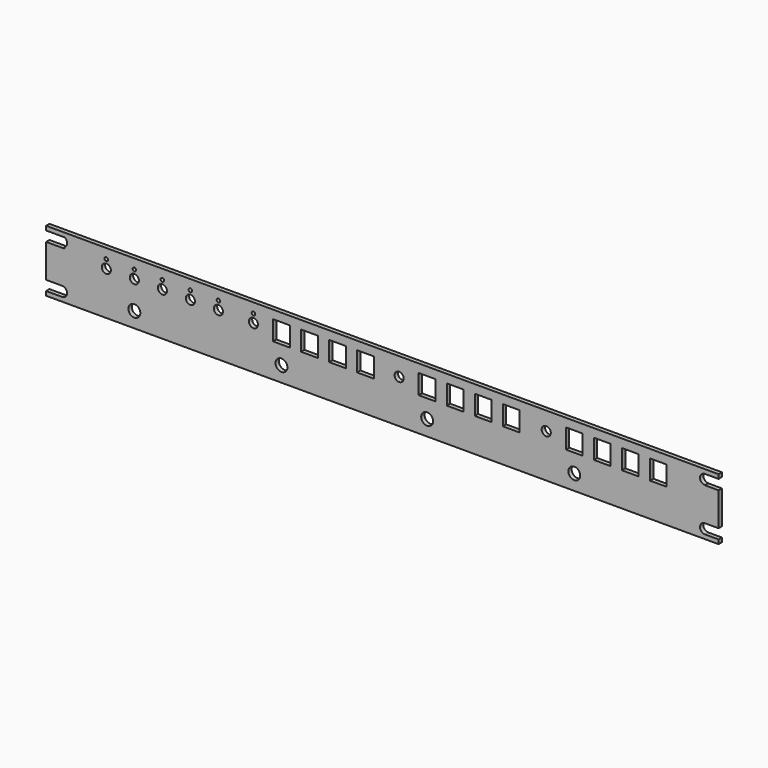
from build123d import *

# Parameters (mm, degrees)
F0_R     = 4.25
F0_W     = 12
F0_H     = 14
F0_R_2   = 3.25
F1_DEPTH = 3


with BuildPart() as f1:
    # F0 (on Front) → F1 (new body)
    with BuildSketch(Plane.XZ):
        with BuildLine():
            Line((235.9719324717, -52.8782820007), (-244.0280675283, -52.8782820007))
            Line((-244.0280675283, -52.8782820007), (-244.0280675283, -55.8782820007))
            Line((-244.0280675283, -55.8782820007), (-230.8552050385, -55.8782820007))
            ThreePointArc((-230.8552050385, -55.8782820007), (-229.0280675283, -58.9526162523), (-230.8552050385, -62.0269505038))
            Line((-230.8552050385, -62.0269505038), (-230.8552050385, -63.012175262))
            Line((-230.8552050385, -63.012175262), (-244.0280675283, -63.012175262))
            Line((-244.0280675283, -63.012175262), (-244.0280675283, -86.8791321319))
            Line((-244.0280675283, -86.8791321319), (-232.6052050385, -86.8791321319))
            ThreePointArc((-232.6052050385, -86.8791321319), (-229.0280675283, -90.3782820007), (-232.6052050385, -93.8774318695))
            Line((-232.6052050385, -93.8774318695), (-232.6052050385, -93.8782820007))
            Line((-232.6052050385, -93.8782820007), (-244.0280675283, -93.8782820007))
            Line((-244.0280675283, -93.8782820007), (-244.0280675283, -96.8782820007))
            Line((-244.0280675283, -96.8782820007), (235.9719324717, -96.8782820007))
            Line((235.9719324717, -96.8782820007), (235.9719324717, -93.8782820007))
            Line((235.9719324717, -93.8782820007), (226.299069982, -93.8782820007))
            Line((226.299069982, -93.8782820007), (226.299069982, -93.8774318695))
            ThreePointArc((226.299069982, -93.8774318695), (222.7219324717, -90.3782820007), (226.299069982, -86.8791321319))
            Line((226.299069982, -86.8791321319), (235.9719324717, -86.8791321319))
            Line((235.9719324717, -86.8791321319), (235.9719324717, -63.012175262))
            Line((235.9719324717, -63.012175262), (226.299069982, -63.012175262))
            Line((226.299069982, -63.012175262), (226.299069982, -62.8765817383))
            ThreePointArc((226.299069982, -62.8765817383), (222.7219324717, -59.3774318695), (226.299069982, -55.8782820007))
            Line((226.299069982, -55.8782820007), (235.9719324717, -55.8782820007))
            Line((235.9719324717, -55.8782820007), (235.9719324717, -52.8782820007))
        make_face()
        with Locations((-76.0280675283, -85.8782820007)):
            Circle(F0_R, mode=Mode.SUBTRACT)
        with Locations((-181.0280675283, -85.8782820007)):
            Circle(F0_R, mode=Mode.SUBTRACT)
        with Locations((27.9719324717, -85.8782820007)):
            Circle(F0_R, mode=Mode.SUBTRACT)
        with Locations((132.9719324717, -85.8782820007)):
            Circle(F0_R, mode=Mode.SUBTRACT)
        with BuildLine():
            Line((-207.0280675283, -72.8782820007), (-207.0280675283, -58.8782820007))
            Line((-207.0280675283, -58.8782820007), (-201.7780675283, -58.8782820007))
            ThreePointArc((-201.7780675283, -58.8782820007), (-201.0280675283, -58.6282820007), (-200.2780675283, -58.8782820007))
            Line((-200.2780675283, -58.8782820007), (-195.0280675283, -58.8782820007))
            Line((-195.0280675283, -58.8782820007), (-195.0280675283, -72.8782820007))
            Line((-195.0280675283, -72.8782820007), (-207.0280675283, -72.8782820007))
        make_face(mode=Mode.SUBTRACT)
        with BuildLine():
            Line((-187.0280675283, -72.8782820007), (-187.0280675283, -58.8782820007))
            Line((-187.0280675283, -58.8782820007), (-181.7780675283, -58.8782820007))
            ThreePointArc((-181.7780675283, -58.8782820007), (-181.0280675283, -58.6282820007), (-180.2780675283, -58.8782820007))
            Line((-180.2780675283, -58.8782820007), (-175.0280675283, -58.8782820007))
            Line((-175.0280675283, -58.8782820007), (-175.0280675283, -72.8782820007))
            Line((-175.0280675283, -72.8782820007), (-187.0280675283, -72.8782820007))
        make_face(mode=Mode.SUBTRACT)
        with BuildLine():
            Line((-167.0280675283, -72.8782820007), (-167.0280675283, -58.8782820007))
            Line((-167.0280675283, -58.8782820007), (-161.7780675283, -58.8782820007))
            ThreePointArc((-161.7780675283, -58.8782820007), (-161.0280675283, -58.6282820007), (-160.2780675283, -58.8782820007))
            Line((-160.2780675283, -58.8782820007), (-155.0280675283, -58.8782820007))
            Line((-155.0280675283, -58.8782820007), (-155.0280675283, -72.8782820007))
            Line((-155.0280675283, -72.8782820007), (-167.0280675283, -72.8782820007))
        make_face(mode=Mode.SUBTRACT)
        with BuildLine():
            Line((-147.0280675283, -72.8782820007), (-147.0280675283, -58.8782820007))
            Line((-147.0280675283, -58.8782820007), (-141.7780675283, -58.8782820007))
            ThreePointArc((-141.7780675283, -58.8782820007), (-141.0280675283, -58.6282820007), (-140.2780675283, -58.8782820007))
            Line((-140.2780675283, -58.8782820007), (-135.0280675283, -58.8782820007))
            Line((-135.0280675283, -58.8782820007), (-135.0280675283, -72.8782820007))
            Line((-135.0280675283, -72.8782820007), (-147.0280675283, -72.8782820007))
        make_face(mode=Mode.SUBTRACT)
        with BuildLine():
            Line((-127.0280675283, -72.8782820007), (-127.0280675283, -58.8782820007))
            Line((-127.0280675283, -58.8782820007), (-121.7780675283, -58.8782820007))
            ThreePointArc((-121.7780675283, -58.8782820007), (-121.0280675283, -58.6282820007), (-120.2780675283, -58.8782820007))
            Line((-120.2780675283, -58.8782820007), (-115.0280675283, -58.8782820007))
            Line((-115.0280675283, -58.8782820007), (-115.0280675283, -72.8782820007))
            Line((-115.0280675283, -72.8782820007), (-127.0280675283, -72.8782820007))
        make_face(mode=Mode.SUBTRACT)
        with BuildLine():
            Line((-102.0280675283, -72.8782820007), (-102.0280675283, -58.8782820007))
            Line((-102.0280675283, -58.8782820007), (-96.7780675283, -58.8782820007))
            ThreePointArc((-96.7780675283, -58.8782820007), (-96.0280675283, -58.6282820007), (-95.2780675283, -58.8782820007))
            Line((-95.2780675283, -58.8782820007), (-90.0280675283, -58.8782820007))
            Line((-90.0280675283, -58.8782820007), (-90.0280675283, -72.8782820007))
            Line((-90.0280675283, -72.8782820007), (-102.0280675283, -72.8782820007))
        make_face(mode=Mode.SUBTRACT)
        with Locations((-76.0280675283, -65.8782820007)):
            Rectangle(F0_W, F0_H, mode=Mode.SUBTRACT)
        with Locations((-56.0280675283, -65.8782820007)):
            Rectangle(F0_W, F0_H, mode=Mode.SUBTRACT)
        with Locations((-36.0280675283, -65.8782820007)):
            Rectangle(F0_W, F0_H, mode=Mode.SUBTRACT)
        with Locations((-16.0280675283, -65.8782820007)):
            Rectangle(F0_W, F0_H, mode=Mode.SUBTRACT)
        with Locations((7.9719324717, -65.8782820007)):
            Rectangle(F0_W, F0_H, mode=Mode.SUBTRACT)
        with Locations((27.9719324717, -65.8782820007)):
            Rectangle(F0_W, F0_H, mode=Mode.SUBTRACT)
        with Locations((47.9719324717, -65.8782820007)):
            Rectangle(F0_W, F0_H, mode=Mode.SUBTRACT)
        with Locations((67.9719324717, -65.8782820007)):
            Rectangle(F0_W, F0_H, mode=Mode.SUBTRACT)
        with Locations((87.9719324717, -65.8782820007)):
            Rectangle(F0_W, F0_H, mode=Mode.SUBTRACT)
        with Locations((112.9719324717, -65.8782820007)):
            Rectangle(F0_W, F0_H, mode=Mode.SUBTRACT)
        with Locations((132.9719324717, -65.8782820007)):
            Rectangle(F0_W, F0_H, mode=Mode.SUBTRACT)
        with Locations((152.9719324717, -65.8782820007)):
            Rectangle(F0_W, F0_H, mode=Mode.SUBTRACT)
        with Locations((172.9719324717, -65.8782820007)):
            Rectangle(F0_W, F0_H, mode=Mode.SUBTRACT)
        with Locations((192.9719324717, -65.8782820007)):
            Rectangle(F0_W, F0_H, mode=Mode.SUBTRACT)
        with BuildLine():
            Line((-201.7780675283, -58.8782820007), (-207.0280675283, -58.8782820007))
            Line((-207.0280675283, -58.8782820007), (-207.0280675283, -72.8782820007))
            Line((-207.0280675283, -72.8782820007), (-195.0280675283, -72.8782820007))
            Line((-195.0280675283, -72.8782820007), (-195.0280675283, -58.8782820007))
            Line((-195.0280675283, -58.8782820007), (-200.2780675283, -58.8782820007))
            ThreePointArc((-200.2780675283, -58.8782820007), (-199.9100335395, -59.3192650063), (-199.7780675283, -59.8782820007))
            ThreePointArc((-199.7780675283, -59.8782820007), (-201.5870845227, -60.9963159894), (-201.7780675283, -58.8782820007))
        make_face()
        with Locations((-201.0280675283, -65.8782820007)):
            Circle(F0_R_2, mode=Mode.SUBTRACT)
        with BuildLine():
            Line((-181.7780675283, -58.8782820007), (-187.0280675283, -58.8782820007))
            Line((-187.0280675283, -58.8782820007), (-187.0280675283, -72.8782820007))
            Line((-187.0280675283, -72.8782820007), (-175.0280675283, -72.8782820007))
            Line((-175.0280675283, -72.8782820007), (-175.0280675283, -58.8782820007))
            Line((-175.0280675283, -58.8782820007), (-180.2780675283, -58.8782820007))
            ThreePointArc((-180.2780675283, -58.8782820007), (-179.9100335395, -59.3192650063), (-179.7780675283, -59.8782820007))
            ThreePointArc((-179.7780675283, -59.8782820007), (-181.5870845227, -60.9963159894), (-181.7780675283, -58.8782820007))
        make_face()
        with Locations((-181.0280675283, -65.8782820007)):
            Circle(F0_R_2, mode=Mode.SUBTRACT)
        with BuildLine():
            Line((-121.7780675283, -58.8782820007), (-127.0280675283, -58.8782820007))
            Line((-127.0280675283, -58.8782820007), (-127.0280675283, -72.8782820007))
            Line((-127.0280675283, -72.8782820007), (-115.0280675283, -72.8782820007))
            Line((-115.0280675283, -72.8782820007), (-115.0280675283, -58.8782820007))
            Line((-115.0280675283, -58.8782820007), (-120.2780675283, -58.8782820007))
            ThreePointArc((-120.2780675283, -58.8782820007), (-119.9100335395, -59.3192650063), (-119.7780675283, -59.8782820007))
            ThreePointArc((-119.7780675283, -59.8782820007), (-121.5870845227, -60.9963159894), (-121.7780675283, -58.8782820007))
        make_face()
        with Locations((-121.0280675283, -65.8782820007)):
            Circle(F0_R_2, mode=Mode.SUBTRACT)
        with BuildLine():
            Line((-96.7780675283, -58.8782820007), (-102.0280675283, -58.8782820007))
            Line((-102.0280675283, -58.8782820007), (-102.0280675283, -72.8782820007))
            Line((-102.0280675283, -72.8782820007), (-90.0280675283, -72.8782820007))
            Line((-90.0280675283, -72.8782820007), (-90.0280675283, -58.8782820007))
            Line((-90.0280675283, -58.8782820007), (-95.2780675283, -58.8782820007))
            ThreePointArc((-95.2780675283, -58.8782820007), (-94.9100335395, -59.3192650063), (-94.7780675283, -59.8782820007))
            ThreePointArc((-94.7780675283, -59.8782820007), (-96.5870845227, -60.9963159894), (-96.7780675283, -58.8782820007))
        make_face()
        with Locations((-96.0280675283, -65.8782820007)):
            Circle(F0_R_2, mode=Mode.SUBTRACT)
        with Locations((7.9719324717, -65.8782820007)):
            Rectangle(F0_W, F0_H)
        with Locations((7.9719324717, -65.8782820007)):
            Circle(F0_R_2, mode=Mode.SUBTRACT)
        with Locations((112.9719324717, -65.8782820007)):
            Rectangle(F0_W, F0_H)
        with Locations((112.9719324717, -65.8782820007)):
            Circle(F0_R_2, mode=Mode.SUBTRACT)
        with BuildLine():
            Line((-161.7780675283, -58.8782820007), (-167.0280675283, -58.8782820007))
            Line((-167.0280675283, -58.8782820007), (-167.0280675283, -72.8782820007))
            Line((-167.0280675283, -72.8782820007), (-155.0280675283, -72.8782820007))
            Line((-155.0280675283, -72.8782820007), (-155.0280675283, -58.8782820007))
            Line((-155.0280675283, -58.8782820007), (-160.2780675283, -58.8782820007))
            ThreePointArc((-160.2780675283, -58.8782820007), (-159.9100335395, -59.3192650063), (-159.7780675283, -59.8782820007))
            ThreePointArc((-159.7780675283, -59.8782820007), (-161.5870845227, -60.9963159894), (-161.7780675283, -58.8782820007))
        make_face()
        with Locations((-161.0280675283, -65.8782820007)):
            Circle(F0_R_2, mode=Mode.SUBTRACT)
        with BuildLine():
            Line((-141.7780675283, -58.8782820007), (-147.0280675283, -58.8782820007))
            Line((-147.0280675283, -58.8782820007), (-147.0280675283, -72.8782820007))
            Line((-147.0280675283, -72.8782820007), (-135.0280675283, -72.8782820007))
            Line((-135.0280675283, -72.8782820007), (-135.0280675283, -58.8782820007))
            Line((-135.0280675283, -58.8782820007), (-140.2780675283, -58.8782820007))
            ThreePointArc((-140.2780675283, -58.8782820007), (-139.9100335395, -59.3192650063), (-139.7780675283, -59.8782820007))
            ThreePointArc((-139.7780675283, -59.8782820007), (-141.5870845227, -60.9963159894), (-141.7780675283, -58.8782820007))
        make_face()
        with Locations((-141.0280675283, -65.8782820007)):
            Circle(F0_R_2, mode=Mode.SUBTRACT)
    extrude(amount=F1_DEPTH)


solid = f1.part
